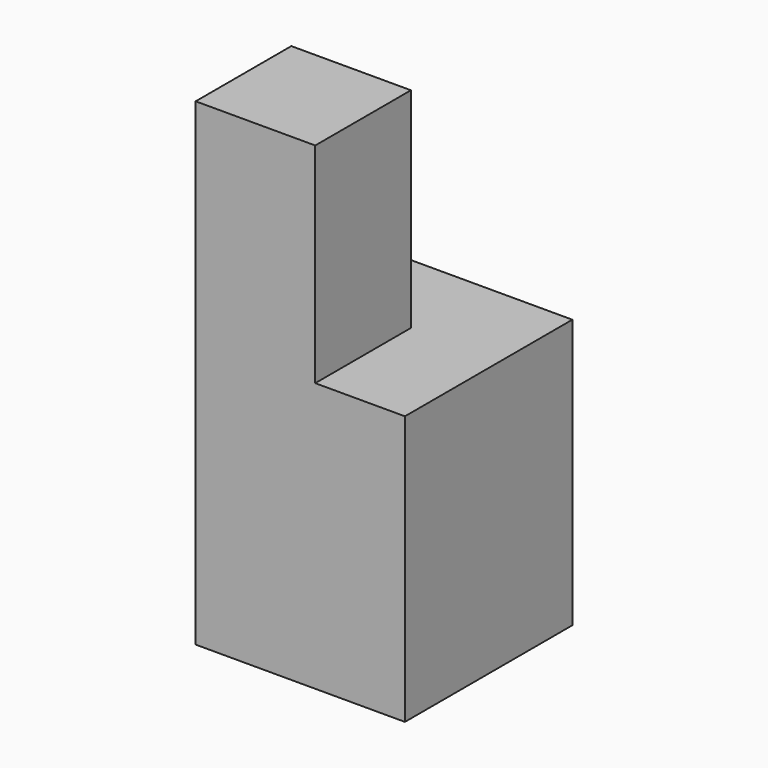
from build123d import *

# Parameters (mm, degrees)
F0_W     = 88.9
F0_H     = 88.9
F1_DEPTH = 203.2
F3_DEPTH = 88.9


with BuildPart() as f1:
    # F0 (on Top) → F1 (new body)
    with BuildSketch(Plane.XY):
        with Locations((2.694333, -0.491857)):
            Rectangle(F0_W, F0_H)
    extrude(amount=F1_DEPTH)

    # F2 (on face) → F3 (cut)
    with BuildSketch(Plane.XY.offset(203.2)):
        Polygon((9.044333, 43.958143), (-41.755667, 43.958143), (-41.755667, 5.858143), (9.044333, 5.858143), (9.044333, -44.941857), (47.144333, -44.941857), (47.144333, 5.858143), (47.144333, 43.958143), align=None)
    extrude(amount=-F3_DEPTH, mode=Mode.SUBTRACT)


solid = f1.part
